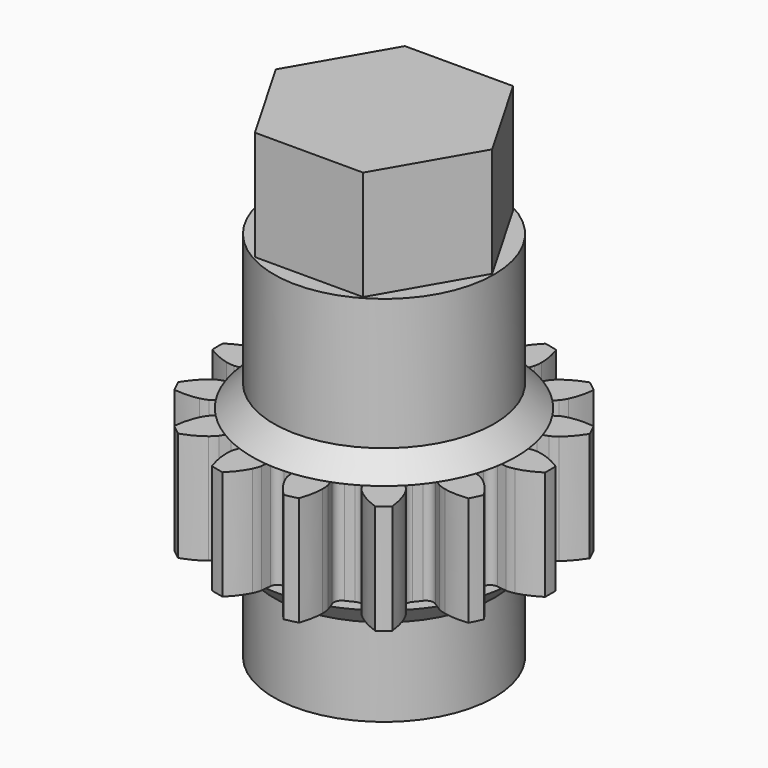
from build123d import *

# Parameters (mm, degrees)
PAD010_DEPTH = 5
SKETCH014_R  = 5.03
PAD011_DEPTH = 17
PAD012_DEPTH = 17


with BuildPart() as part:
    # InvoluteGear003 → Pad010 (new body)
    with BuildSketch(Plane.XY):
        with BuildLine():
            Line((5.760983, -0.736214), (6.214081, -0.793363))
            add(Edge.make_bspline(
                [(6.214081, -0.793363), (6.25468, -0.795677), (6.376676, -0.797002), (6.58114, -0.751054)],
                knots=[0, 0, 0, 0, 1, 1, 1, 1], degree=3))
            add(Edge.make_bspline(
                [(6.58114, -0.751054), (6.824958, -0.69507), (7.173417, -0.572328), (7.595026, -0.306261)],
                knots=[0, 0, 0, 0, 1, 1, 1, 1], degree=3))
            ThreePointArc((7.595026, -0.306261), (7.601199, 0), (7.595026, 0.306261))
            add(Edge.make_bspline(
                [(7.595026, 0.306261), (7.173417, 0.572328), (6.824958, 0.69507), (6.58114, 0.751054)],
                knots=[0, 0, 0, 0, 1, 1, 1, 1], degree=3))
            add(Edge.make_bspline(
                [(6.58114, 0.751054), (6.376676, 0.797002), (6.25468, 0.795677), (6.214081, 0.793363)],
                knots=[0, 0, 0, 0, 1, 1, 1, 1], degree=3))
            Line((6.214081, 0.793363), (5.760983, 0.736214))
            ThreePointArc((5.760983, 0.736214), (5.506868, 0.801056), (5.365993, 1.022265))
            ThreePointArc((5.365993, 1.022265), (5.325544, 1.215521), (5.278137, 1.407188))
            ThreePointArc((5.278137, 1.407188), (5.309082, 1.667614), (5.509898, 1.836291))
            Line((5.509898, 1.836291), (5.94292, 1.981393))
            add(Edge.make_bspline(
                [(5.94292, 1.981393), (5.980503, 1.996924), (6.090993, 2.048662), (6.255273, 2.178773)],
                knots=[0, 0, 0, 0, 1, 1, 1, 1], degree=3))
            add(Edge.make_bspline(
                [(6.255273, 2.178773), (6.450654, 2.335002), (6.711349, 2.596779), (6.975764, 3.019427)],
                knots=[0, 0, 0, 0, 1, 1, 1, 1], degree=3))
            ThreePointArc((6.975764, 3.019427), (6.848444, 3.298037), (6.71, 3.57129))
            add(Edge.make_bspline(
                [(6.71, 3.57129), (6.214701, 3.628079), (5.847495, 3.587475), (5.603532, 3.532126)],
                knots=[0, 0, 0, 0, 1, 1, 1, 1], degree=3))
            add(Edge.make_bspline(
                [(5.603532, 3.532126), (5.399381, 3.48481), (5.29004, 3.430684), (5.254466, 3.410984)],
                knots=[0, 0, 0, 0, 1, 1, 1, 1], degree=3))
            Line((5.254466, 3.410984), (4.871035, 3.162902))
            ThreePointArc((4.871035, 3.162902), (4.613951, 3.111067), (4.391048, 3.249246))
            ThreePointArc((4.391048, 3.249246), (4.270754, 3.405813), (4.144881, 3.55793))
            ThreePointArc((4.144881, 3.55793), (4.059767, 3.805992), (4.167509, 4.045096))
            Line((4.167509, 4.045096), (4.494692, 4.36371))
            add(Edge.make_bspline(
                [(4.494692, 4.36371), (4.521814, 4.394009), (4.598914, 4.488564), (4.690472, 4.677068)],
                knots=[0, 0, 0, 0, 1, 1, 1, 1], degree=3))
            add(Edge.make_bspline(
                [(4.690472, 4.677068), (4.798719, 4.902598), (4.920016, 5.251562), (4.974866, 5.74708)],
                knots=[0, 0, 0, 0, 1, 1, 1, 1], degree=3))
            ThreePointArc((4.974866, 5.74708), (4.73927, 5.942857), (4.495977, 6.128981))
            add(Edge.make_bspline(
                [(4.495977, 6.128981), (4.025088, 5.965244), (3.711864, 5.769336), (3.516076, 5.613617)],
                knots=[0, 0, 0, 0, 1, 1, 1, 1], degree=3))
            add(Edge.make_bspline(
                [(3.516076, 5.613617), (3.352672, 5.482409), (3.277644, 5.386202), (3.25414, 5.353018)],
                knots=[0, 0, 0, 0, 1, 1, 1, 1], degree=3))
            Line((3.25414, 5.353018), (3.016319, 4.96314))
            ThreePointArc((3.016319, 4.96314), (2.807185, 4.804893), (2.546403, 4.832674))
            ThreePointArc((2.546403, 4.832674), (2.37009, 4.921542), (2.19068, 5.003981))
            ThreePointArc((2.19068, 5.003981), (2.006365, 5.190547), (1.999695, 5.45272))
            Line((1.999695, 5.45272), (2.156235, 5.881741))
            add(Edge.make_bspline(
                [(2.156235, 5.881741), (2.167525, 5.920807), (2.195963, 6.03945), (2.196665, 6.249012)],
                knots=[0, 0, 0, 0, 1, 1, 1, 1], degree=3))
            add(Edge.make_bspline(
                [(2.196665, 6.249012), (2.196339, 6.499174), (2.154214, 6.866209), (1.988635, 7.336454)],
                knots=[0, 0, 0, 0, 1, 1, 1, 1], degree=3))
            ThreePointArc((1.988635, 7.336454), (1.691426, 7.410622), (1.39147, 7.472753))
            add(Edge.make_bspline(
                [(1.39147, 7.472753), (1.038257, 7.120919), (0.841053, 6.808509), (0.732218, 6.583263)],
                knots=[0, 0, 0, 0, 1, 1, 1, 1], degree=3))
            add(Edge.make_bspline(
                [(0.732218, 6.583263), (0.641925, 6.394149), (0.616069, 6.274916), (0.609291, 6.23482)],
                knots=[0, 0, 0, 0, 1, 1, 1, 1], degree=3))
            Line((0.609291, 6.23482), (0.564184, 5.780366))
            ThreePointArc((0.564184, 5.780366), (0.444421, 5.547051), (0.197411, 5.458932))
            ThreePointArc((0.197411, 5.458932), (0, 5.4625), (-0.197411, 5.458932))
            ThreePointArc((-0.197411, 5.458932), (-0.444421, 5.547051), (-0.564184, 5.780366))
            Line((-0.564184, 5.780366), (-0.609291, 6.23482))
            add(Edge.make_bspline(
                [(-0.609291, 6.23482), (-0.616069, 6.274916), (-0.641925, 6.394149), (-0.732218, 6.583263)],
                knots=[0, 0, 0, 0, 1, 1, 1, 1], degree=3))
            add(Edge.make_bspline(
                [(-0.732218, 6.583263), (-0.841053, 6.808509), (-1.038257, 7.120919), (-1.39147, 7.472753)],
                knots=[0, 0, 0, 0, 1, 1, 1, 1], degree=3))
            ThreePointArc((-1.39147, 7.472753), (-1.691426, 7.410622), (-1.988635, 7.336454))
            add(Edge.make_bspline(
                [(-1.988635, 7.336454), (-2.154214, 6.866209), (-2.196339, 6.499174), (-2.196665, 6.249012)],
                knots=[0, 0, 0, 0, 1, 1, 1, 1], degree=3))
            add(Edge.make_bspline(
                [(-2.196665, 6.249012), (-2.195963, 6.03945), (-2.167525, 5.920807), (-2.156235, 5.881741)],
                knots=[0, 0, 0, 0, 1, 1, 1, 1], degree=3))
            Line((-2.156235, 5.881741), (-1.999695, 5.45272))
            ThreePointArc((-1.999695, 5.45272), (-2.006365, 5.190547), (-2.19068, 5.003981))
            ThreePointArc((-2.19068, 5.003981), (-2.37009, 4.921542), (-2.546403, 4.832674))
            ThreePointArc((-2.546403, 4.832674), (-2.807185, 4.804893), (-3.016319, 4.96314))
            Line((-3.016319, 4.96314), (-3.25414, 5.353018))
            add(Edge.make_bspline(
                [(-3.25414, 5.353018), (-3.277644, 5.386202), (-3.352672, 5.482409), (-3.516076, 5.613617)],
                knots=[0, 0, 0, 0, 1, 1, 1, 1], degree=3))
            add(Edge.make_bspline(
                [(-3.516076, 5.613617), (-3.711864, 5.769336), (-4.025088, 5.965244), (-4.495977, 6.128981)],
                knots=[0, 0, 0, 0, 1, 1, 1, 1], degree=3))
            ThreePointArc((-4.495977, 6.128981), (-4.73927, 5.942857), (-4.974866, 5.74708))
            add(Edge.make_bspline(
                [(-4.974866, 5.74708), (-4.920016, 5.251562), (-4.798719, 4.902598), (-4.690472, 4.677068)],
                knots=[0, 0, 0, 0, 1, 1, 1, 1], degree=3))
            add(Edge.make_bspline(
                [(-4.690472, 4.677068), (-4.598914, 4.488564), (-4.521814, 4.394009), (-4.494692, 4.36371)],
                knots=[0, 0, 0, 0, 1, 1, 1, 1], degree=3))
            Line((-4.494692, 4.36371), (-4.167509, 4.045096))
            ThreePointArc((-4.167509, 4.045096), (-4.059767, 3.805992), (-4.144881, 3.55793))
            ThreePointArc((-4.144881, 3.55793), (-4.270754, 3.405813), (-4.391048, 3.249246))
            ThreePointArc((-4.391048, 3.249246), (-4.613951, 3.111067), (-4.871035, 3.162902))
            Line((-4.871035, 3.162902), (-5.254466, 3.410984))
            add(Edge.make_bspline(
                [(-5.254466, 3.410984), (-5.29004, 3.430684), (-5.399381, 3.48481), (-5.603532, 3.532126)],
                knots=[0, 0, 0, 0, 1, 1, 1, 1], degree=3))
            add(Edge.make_bspline(
                [(-5.603532, 3.532126), (-5.847495, 3.587475), (-6.214701, 3.628079), (-6.71, 3.57129)],
                knots=[0, 0, 0, 0, 1, 1, 1, 1], degree=3))
            ThreePointArc((-6.71, 3.57129), (-6.848444, 3.298037), (-6.975764, 3.019427))
            add(Edge.make_bspline(
                [(-6.975764, 3.019427), (-6.711349, 2.596779), (-6.450654, 2.335002), (-6.255273, 2.178773)],
                knots=[0, 0, 0, 0, 1, 1, 1, 1], degree=3))
            add(Edge.make_bspline(
                [(-6.255273, 2.178773), (-6.090993, 2.048662), (-5.980503, 1.996924), (-5.94292, 1.981393)],
                knots=[0, 0, 0, 0, 1, 1, 1, 1], degree=3))
            Line((-5.94292, 1.981393), (-5.509898, 1.836291))
            ThreePointArc((-5.509898, 1.836291), (-5.309082, 1.667614), (-5.278137, 1.407188))
            ThreePointArc((-5.278137, 1.407188), (-5.325544, 1.215521), (-5.365993, 1.022265))
            ThreePointArc((-5.365993, 1.022265), (-5.506868, 0.801056), (-5.760983, 0.736214))
            Line((-5.760983, 0.736214), (-6.214081, 0.793363))
            add(Edge.make_bspline(
                [(-6.214081, 0.793363), (-6.25468, 0.795677), (-6.376676, 0.797002), (-6.58114, 0.751054)],
                knots=[0, 0, 0, 0, 1, 1, 1, 1], degree=3))
            add(Edge.make_bspline(
                [(-6.58114, 0.751054), (-6.824958, 0.69507), (-7.173417, 0.572328), (-7.595026, 0.306261)],
                knots=[0, 0, 0, 0, 1, 1, 1, 1], degree=3))
            ThreePointArc((-7.595026, 0.306261), (-7.601199, 0), (-7.595026, -0.306261))
            add(Edge.make_bspline(
                [(-7.595026, -0.306261), (-7.173417, -0.572328), (-6.824958, -0.69507), (-6.58114, -0.751054)],
                knots=[0, 0, 0, 0, 1, 1, 1, 1], degree=3))
            add(Edge.make_bspline(
                [(-6.58114, -0.751054), (-6.376676, -0.797002), (-6.25468, -0.795677), (-6.214081, -0.793363)],
                knots=[0, 0, 0, 0, 1, 1, 1, 1], degree=3))
            Line((-6.214081, -0.793363), (-5.760983, -0.736214))
            ThreePointArc((-5.760983, -0.736214), (-5.506868, -0.801056), (-5.365993, -1.022265))
            ThreePointArc((-5.365993, -1.022265), (-5.325544, -1.215521), (-5.278137, -1.407188))
            ThreePointArc((-5.278137, -1.407188), (-5.309082, -1.667614), (-5.509898, -1.836291))
            Line((-5.509898, -1.836291), (-5.94292, -1.981393))
            add(Edge.make_bspline(
                [(-5.94292, -1.981393), (-5.980503, -1.996924), (-6.090993, -2.048662), (-6.255273, -2.178773)],
                knots=[0, 0, 0, 0, 1, 1, 1, 1], degree=3))
            add(Edge.make_bspline(
                [(-6.255273, -2.178773), (-6.450654, -2.335002), (-6.711349, -2.596779), (-6.975764, -3.019427)],
                knots=[0, 0, 0, 0, 1, 1, 1, 1], degree=3))
            ThreePointArc((-6.975764, -3.019427), (-6.848444, -3.298037), (-6.71, -3.57129))
            add(Edge.make_bspline(
                [(-6.71, -3.57129), (-6.214701, -3.628079), (-5.847495, -3.587475), (-5.603532, -3.532126)],
                knots=[0, 0, 0, 0, 1, 1, 1, 1], degree=3))
            add(Edge.make_bspline(
                [(-5.603532, -3.532126), (-5.399381, -3.48481), (-5.29004, -3.430684), (-5.254466, -3.410984)],
                knots=[0, 0, 0, 0, 1, 1, 1, 1], degree=3))
            Line((-5.254466, -3.410984), (-4.871035, -3.162902))
            ThreePointArc((-4.871035, -3.162902), (-4.613951, -3.111067), (-4.391048, -3.249246))
            ThreePointArc((-4.391048, -3.249246), (-4.270754, -3.405813), (-4.144881, -3.55793))
            ThreePointArc((-4.144881, -3.55793), (-4.059767, -3.805992), (-4.167509, -4.045096))
            Line((-4.167509, -4.045096), (-4.494692, -4.36371))
            add(Edge.make_bspline(
                [(-4.494692, -4.36371), (-4.521814, -4.394009), (-4.598914, -4.488564), (-4.690472, -4.677068)],
                knots=[0, 0, 0, 0, 1, 1, 1, 1], degree=3))
            add(Edge.make_bspline(
                [(-4.690472, -4.677068), (-4.798719, -4.902598), (-4.920016, -5.251562), (-4.974866, -5.74708)],
                knots=[0, 0, 0, 0, 1, 1, 1, 1], degree=3))
            ThreePointArc((-4.974866, -5.74708), (-4.73927, -5.942857), (-4.495977, -6.128981))
            add(Edge.make_bspline(
                [(-4.495977, -6.128981), (-4.025088, -5.965244), (-3.711864, -5.769336), (-3.516076, -5.613617)],
                knots=[0, 0, 0, 0, 1, 1, 1, 1], degree=3))
            add(Edge.make_bspline(
                [(-3.516076, -5.613617), (-3.352672, -5.482409), (-3.277644, -5.386202), (-3.25414, -5.353018)],
                knots=[0, 0, 0, 0, 1, 1, 1, 1], degree=3))
            Line((-3.25414, -5.353018), (-3.016319, -4.96314))
            ThreePointArc((-3.016319, -4.96314), (-2.807185, -4.804893), (-2.546403, -4.832674))
            ThreePointArc((-2.546403, -4.832674), (-2.37009, -4.921542), (-2.19068, -5.003981))
            ThreePointArc((-2.19068, -5.003981), (-2.006365, -5.190547), (-1.999695, -5.45272))
            Line((-1.999695, -5.45272), (-2.156235, -5.881741))
            add(Edge.make_bspline(
                [(-2.156235, -5.881741), (-2.167525, -5.920807), (-2.195963, -6.03945), (-2.196665, -6.249012)],
                knots=[0, 0, 0, 0, 1, 1, 1, 1], degree=3))
            add(Edge.make_bspline(
                [(-2.196665, -6.249012), (-2.196339, -6.499174), (-2.154214, -6.866209), (-1.988635, -7.336454)],
                knots=[0, 0, 0, 0, 1, 1, 1, 1], degree=3))
            ThreePointArc((-1.988635, -7.336454), (-1.691426, -7.410622), (-1.39147, -7.472753))
            add(Edge.make_bspline(
                [(-1.39147, -7.472753), (-1.038257, -7.120919), (-0.841053, -6.808509), (-0.732218, -6.583263)],
                knots=[0, 0, 0, 0, 1, 1, 1, 1], degree=3))
            add(Edge.make_bspline(
                [(-0.732218, -6.583263), (-0.641925, -6.394149), (-0.616069, -6.274916), (-0.609291, -6.23482)],
                knots=[0, 0, 0, 0, 1, 1, 1, 1], degree=3))
            Line((-0.609291, -6.23482), (-0.564184, -5.780366))
            ThreePointArc((-0.564184, -5.780366), (-0.444421, -5.547051), (-0.197411, -5.458932))
            ThreePointArc((-0.197411, -5.458932), (0, -5.4625), (0.197411, -5.458932))
            ThreePointArc((0.197411, -5.458932), (0.444421, -5.547051), (0.564184, -5.780366))
            Line((0.564184, -5.780366), (0.609291, -6.23482))
            add(Edge.make_bspline(
                [(0.609291, -6.23482), (0.616069, -6.274916), (0.641925, -6.394149), (0.732218, -6.583263)],
                knots=[0, 0, 0, 0, 1, 1, 1, 1], degree=3))
            add(Edge.make_bspline(
                [(0.732218, -6.583263), (0.841053, -6.808509), (1.038257, -7.120919), (1.39147, -7.472753)],
                knots=[0, 0, 0, 0, 1, 1, 1, 1], degree=3))
            ThreePointArc((1.39147, -7.472753), (1.691426, -7.410622), (1.988635, -7.336454))
            add(Edge.make_bspline(
                [(1.988635, -7.336454), (2.154214, -6.866209), (2.196339, -6.499174), (2.196665, -6.249012)],
                knots=[0, 0, 0, 0, 1, 1, 1, 1], degree=3))
            add(Edge.make_bspline(
                [(2.196665, -6.249012), (2.195963, -6.03945), (2.167525, -5.920807), (2.156235, -5.881741)],
                knots=[0, 0, 0, 0, 1, 1, 1, 1], degree=3))
            Line((2.156235, -5.881741), (1.999695, -5.45272))
            ThreePointArc((1.999695, -5.45272), (2.006365, -5.190547), (2.19068, -5.003981))
            ThreePointArc((2.19068, -5.003981), (2.37009, -4.921542), (2.546403, -4.832674))
            ThreePointArc((2.546403, -4.832674), (2.807185, -4.804893), (3.016319, -4.96314))
            Line((3.016319, -4.96314), (3.25414, -5.353018))
            add(Edge.make_bspline(
                [(3.25414, -5.353018), (3.277644, -5.386202), (3.352672, -5.482409), (3.516076, -5.613617)],
                knots=[0, 0, 0, 0, 1, 1, 1, 1], degree=3))
            add(Edge.make_bspline(
                [(3.516076, -5.613617), (3.711864, -5.769336), (4.025088, -5.965244), (4.495977, -6.128981)],
                knots=[0, 0, 0, 0, 1, 1, 1, 1], degree=3))
            ThreePointArc((4.495977, -6.128981), (4.73927, -5.942857), (4.974866, -5.74708))
            add(Edge.make_bspline(
                [(4.974866, -5.74708), (4.920016, -5.251562), (4.798719, -4.902598), (4.690472, -4.677068)],
                knots=[0, 0, 0, 0, 1, 1, 1, 1], degree=3))
            add(Edge.make_bspline(
                [(4.690472, -4.677068), (4.598914, -4.488564), (4.521814, -4.394009), (4.494692, -4.36371)],
                knots=[0, 0, 0, 0, 1, 1, 1, 1], degree=3))
            Line((4.494692, -4.36371), (4.167509, -4.045096))
            ThreePointArc((4.167509, -4.045096), (4.059767, -3.805992), (4.144881, -3.55793))
            ThreePointArc((4.144881, -3.55793), (4.270754, -3.405813), (4.391048, -3.249246))
            ThreePointArc((4.391048, -3.249246), (4.613951, -3.111067), (4.871035, -3.162902))
            Line((4.871035, -3.162902), (5.254466, -3.410984))
            add(Edge.make_bspline(
                [(5.254466, -3.410984), (5.29004, -3.430684), (5.399381, -3.48481), (5.603532, -3.532126)],
                knots=[0, 0, 0, 0, 1, 1, 1, 1], degree=3))
            add(Edge.make_bspline(
                [(5.603532, -3.532126), (5.847495, -3.587475), (6.214701, -3.628079), (6.71, -3.57129)],
                knots=[0, 0, 0, 0, 1, 1, 1, 1], degree=3))
            ThreePointArc((6.71, -3.57129), (6.848444, -3.298037), (6.975764, -3.019427))
            add(Edge.make_bspline(
                [(6.975764, -3.019427), (6.711349, -2.596779), (6.450654, -2.335002), (6.255273, -2.178773)],
                knots=[0, 0, 0, 0, 1, 1, 1, 1], degree=3))
            add(Edge.make_bspline(
                [(6.255273, -2.178773), (6.090993, -2.048662), (5.980503, -1.996924), (5.94292, -1.981393)],
                knots=[0, 0, 0, 0, 1, 1, 1, 1], degree=3))
            Line((5.94292, -1.981393), (5.509898, -1.836291))
            ThreePointArc((5.509898, -1.836291), (5.309082, -1.667614), (5.278137, -1.407188))
            ThreePointArc((5.278137, -1.407188), (5.325544, -1.215521), (5.365993, -1.022265))
            ThreePointArc((5.365993, -1.022265), (5.506868, -0.801056), (5.760983, -0.736214))
        make_face()
    extrude(amount=PAD010_DEPTH)

    # Sketch014 → Pad011 (join)
    with BuildSketch(Plane.XY.offset(-5)):
        Circle(SKETCH014_R)
    extrude(amount=PAD011_DEPTH)

    # Sketch015 → Revolution003 (revolve)
    with BuildSketch(Plane.XZ):
        Polygon((5.03, 6), (5.03, 5), (6.03, 5), align=None)
        Polygon((5.03, 0), (5.03, -1), (6.03, 0), align=None)
    revolve(axis=Axis((0, 0, 0), (0, 0, 1)))

    # Sketch016 → Pad012 (join)
    with BuildSketch(Plane.XY):
        Polygon((4.94, 0), (2.47, 4.278165), (-2.47, 4.278165), (-4.94, 0), (-2.47, -4.278165), (2.47, -4.278165), align=None)
    extrude(amount=PAD012_DEPTH)


solid = part.part
